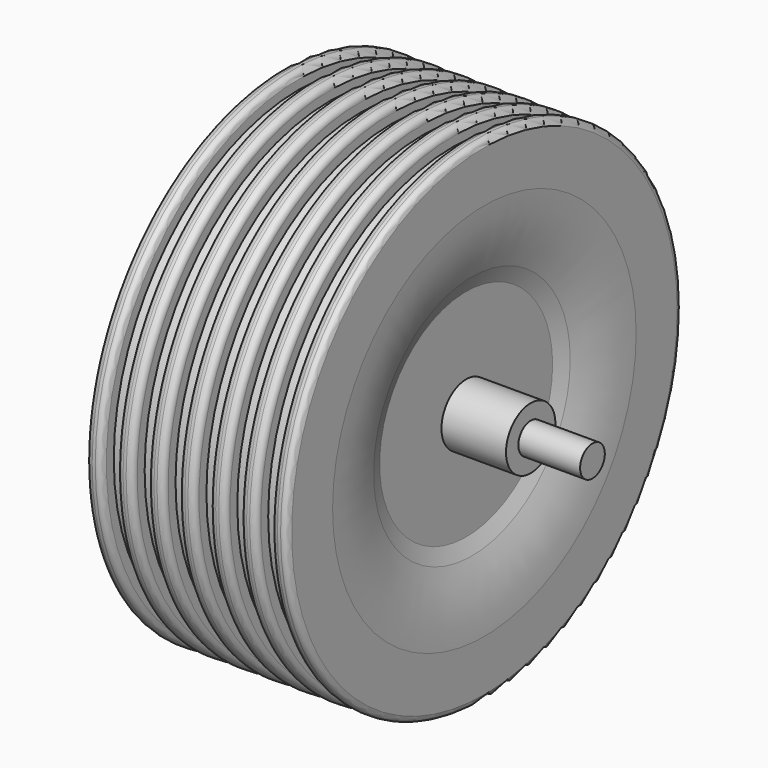
from build123d import *

# Parameters (mm, degrees)
F2_R = 2.54
F3_R = 2.54


with BuildPart() as f1:
    # F0 (on Top) → F1 (revolve)
    with BuildSketch(Plane.XY):
        with BuildLine():
            Line((3.175, 101.6), (0, 101.6))
            Line((0, 101.6), (-3.175, 101.6))
            Line((-3.175, 101.6), (-3.175, 95.25))
            Line((-3.175, 95.25), (-9.525, 95.25))
            Line((-9.525, 95.25), (-9.525, 101.6))
            Line((-9.525, 101.6), (-15.875, 101.6))
            Line((-15.875, 101.6), (-15.875, 95.25))
            Line((-15.875, 95.25), (-22.225, 95.25))
            Line((-22.225, 95.25), (-22.225, 101.6))
            Line((-22.225, 101.6), (-28.575, 101.6))
            Line((-28.575, 101.6), (-28.575, 95.25))
            Line((-28.575, 95.25), (-34.925, 95.25))
            Line((-34.925, 95.25), (-34.925, 101.6))
            Line((-34.925, 101.6), (-41.275, 101.6))
            Line((-41.275, 101.6), (-41.275, 78.025829))
            ThreePointArc((-41.275, 78.025829), (-39.982196, 64.048994), (-36.147653, 50.546418))
            Line((-36.147653, 50.546418), (-33.790544, 44.45))
            Line((-33.790544, 44.45), (-33.790544, 12.7))
            Line((-33.790544, 12.7), (-60.325, 12.7))
            Line((-60.325, 12.7), (-60.325, 6.35))
            Line((-60.325, 6.35), (-85.725, 6.35))
            Line((-85.725, 6.35), (-85.725, 0))
            Line((-85.725, 0), (0, 0))
            Line((0, 0), (85.725, 0))
            Line((85.725, 0), (85.725, 6.35))
            Line((85.725, 6.35), (60.325, 6.35))
            Line((60.325, 6.35), (60.325, 12.7))
            Line((60.325, 12.7), (33.790544, 12.7))
            Line((33.790544, 12.7), (33.790544, 44.45))
            Line((33.790544, 44.45), (36.147653, 50.546418))
            ThreePointArc((36.147653, 50.546418), (39.982196, 64.048994), (41.275, 78.025829))
            Line((41.275, 78.025829), (41.275, 101.6))
            Line((41.275, 101.6), (34.925, 101.6))
            Line((34.925, 101.6), (34.925, 95.25))
            Line((34.925, 95.25), (28.575, 95.25))
            Line((28.575, 95.25), (28.575, 101.6))
            Line((28.575, 101.6), (22.225, 101.6))
            Line((22.225, 101.6), (22.225, 95.25))
            Line((22.225, 95.25), (15.875, 95.25))
            Line((15.875, 95.25), (15.875, 101.6))
            Line((15.875, 101.6), (9.525, 101.6))
            Line((9.525, 101.6), (9.525, 95.25))
            Line((9.525, 95.25), (3.175, 95.25))
            Line((3.175, 95.25), (3.175, 101.6))
        make_face()
    revolve(axis=Axis((42.8625, 0, 0), (-1, 0, 0)))

    # F2
    f2_edges = [f1.edges().sort_by_distance(p)[0] for p in [
        (-41.275, -101.6, 0),
        (41.275, -101.6, 0),
        (-34.925, -101.6, 0),
        (34.925, -101.6, 0),
    ]]
    fillet(f2_edges, radius=F2_R)

    # F3
    f3_edges = [f1.edges().sort_by_distance(p)[0] for p in [
        (-28.575, -101.6, 0),
        (-22.225, -101.6, 0),
        (-15.875, -101.6, 0),
        (-9.525, -101.6, 0),
        (-3.175, -101.6, 0),
        (3.175, -101.6, 0),
        (9.525, -101.6, 0),
        (15.875, -101.6, 0),
        (22.225, -101.6, 0),
        (28.575, -101.6, 0),
    ]]
    fillet(f3_edges, radius=F3_R)


solid = f1.part
